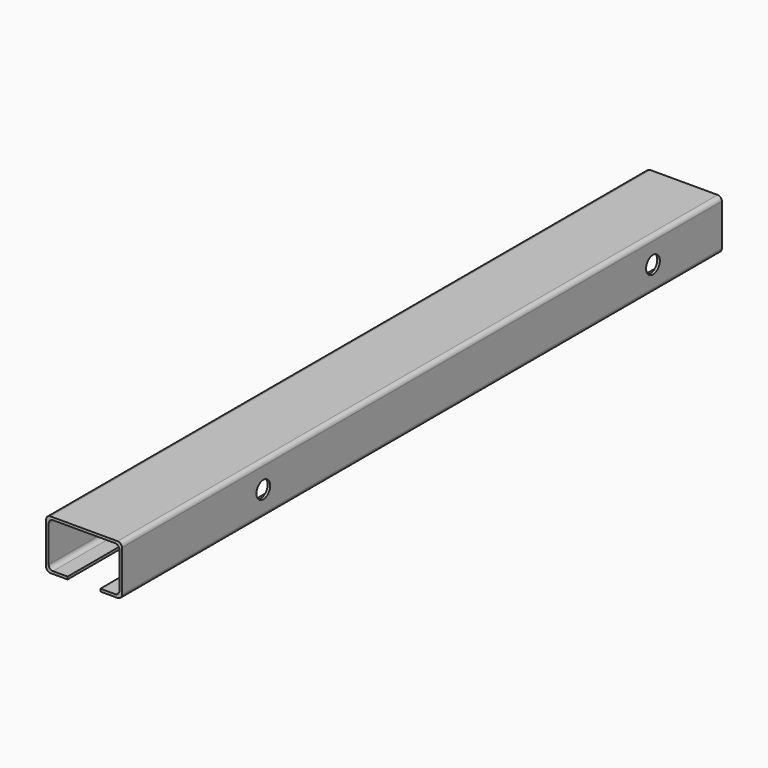
from build123d import *

# Parameters (mm, degrees)
F1_DEPTH = 870
F2_R     = 5
F3_R     = 5
F4_R     = 10
F5_DEPTH = 88.001


with BuildPart() as f1:
    # F0 (on Front) → F1 (new body)
    with BuildSketch(Plane.XZ):
        Polygon((-37.754953, -37.964115), (-12.754953, -37.964115), (-12.754953, -34.964115), (-34.754953, -34.964115), (-34.754953, 17.035885), (47.245047, 17.035885), (47.245047, -34.964115), (25.245047, -34.964115), (25.245047, -37.964115), (50.245047, -37.964115), (50.245047, 20.035885), (-37.754953, 20.035885), align=None)
    extrude(amount=F1_DEPTH)

    # F2
    f2_edges = [f1.edges().sort_by_distance(p)[0] for p in [
        (-37.754953, -435, 20.035885),
        (50.245047, -435, 20.035885),
        (-37.754953, -435, -37.964115),
        (50.245047, -435, -37.964115),
    ]]
    fillet(f2_edges, radius=F2_R)

    # F3
    f3_edges = [f1.edges().sort_by_distance(p)[0] for p in [
        (47.245047, -435, -34.964115),
        (47.245047, -435, 17.035885),
        (-34.754953, -435, -34.964115),
        (-34.754953, -435, 17.035885),
    ]]
    fillet(f3_edges, radius=F3_R)

    # F4 (on face) → F5 (cut, through all)
    with BuildSketch(Plane.YZ.offset(50.245047)):
        with Locations((-665, -8.964115)):
            Circle(F4_R)
        with Locations((-100, -8.964115)):
            Circle(F4_R)
    extrude(amount=-F5_DEPTH, mode=Mode.SUBTRACT)


solid = f1.part
